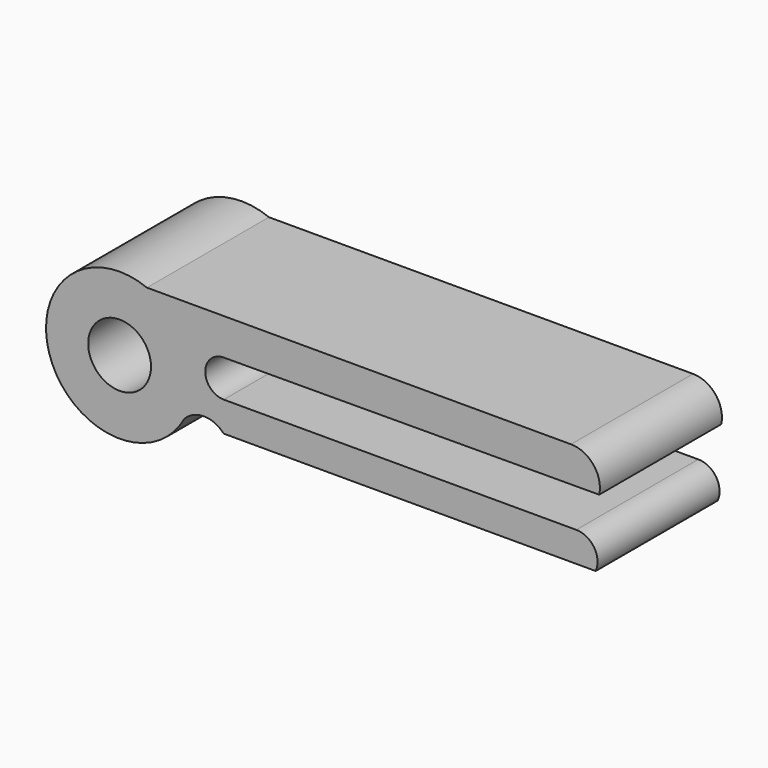
from build123d import *

# Parameters (mm, degrees)
F0_R     = 5.227662
F1_DEPTH = 25.4


with BuildPart() as f1:
    # F0 (on Front) → F1 (new body)
    with BuildSketch(Plane.XZ):
        with BuildLine():
            ThreePointArc((-33.43228, 14.680734), (-32.316148, 17.520209), (-31.936251, 20.547426))
            ThreePointArc((-31.936251, 20.547426), (-32.028173, 22.045374), (-32.302559, 23.520844))
            ThreePointArc((-32.302559, 23.520844), (-34.960743, 28.607173), (-39.643672, 31.924831))
            ThreePointArc((-39.643672, 31.924831), (-55.713624, 16.395638), (-33.43228, 14.680734))
        make_face()
        with Locations((-44.187411, 20.547426)):
            Circle(F0_R, mode=Mode.SUBTRACT)
        with BuildLine():
            ThreePointArc((-32.302559, 23.520844), (-32.028173, 22.045374), (-31.936251, 20.547426))
            ThreePointArc((-31.936251, 20.547426), (-32.316148, 17.520209), (-33.43228, 14.680734))
            ThreePointArc((-33.43228, 14.680734), (-30.149011, 16.149132), (-26.865743, 14.680734))
            Line((-26.865743, 14.680734), (32.150805, 14.680734))
            Line((32.150805, 14.680734), (35.086956, 14.680734))
            ThreePointArc((35.086956, 14.680734), (34.829812, 18.054998), (31.857189, 19.672183))
            Line((31.857189, 19.672183), (-26.843599, 19.672183))
            ThreePointArc((-26.843599, 19.672183), (-29.926575, 22.741396), (-26.871186, 25.838074))
            ThreePointArc((-26.871186, 25.838074), (-29.821507, 25.229421), (-32.302559, 23.520844))
        make_face()
        with BuildLine():
            ThreePointArc((-39.643672, 31.924831), (-34.960743, 28.607173), (-32.302559, 23.520844))
            ThreePointArc((-32.302559, 23.520844), (-29.821507, 25.229421), (-26.871186, 25.838074))
            Line((-26.871186, 25.838074), (31.564939, 26.050513))
            Line((31.564939, 26.050513), (35.674425, 26.065453))
            ThreePointArc((35.674425, 26.065453), (34.731485, 30.122559), (30.976346, 31.924831))
            Line((30.976346, 31.924831), (-39.643672, 31.924831))
        make_face()
    extrude(amount=F1_DEPTH)


solid = f1.part
